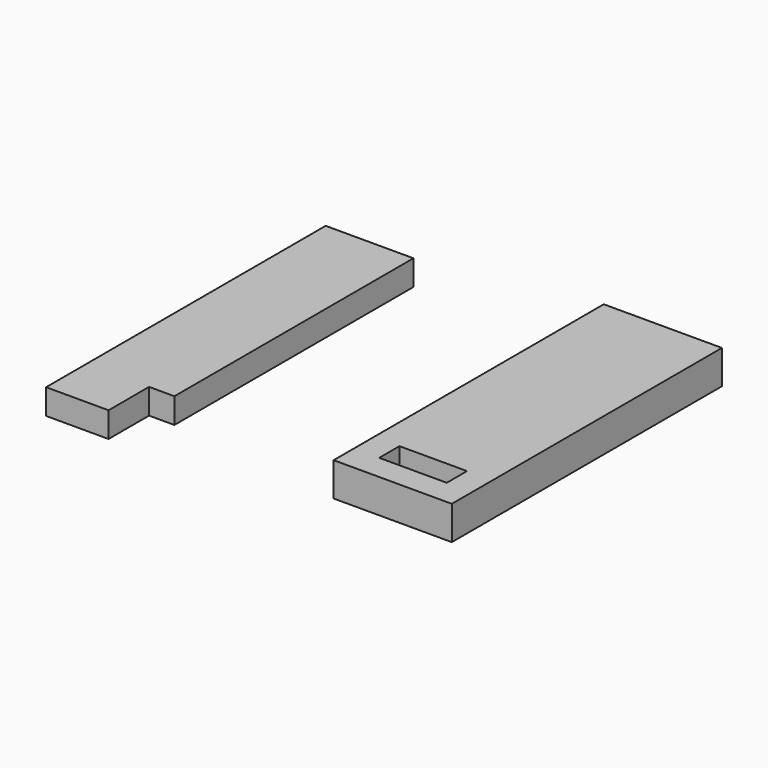
from build123d import *

# Parameters (mm, degrees)
F0_W     = 3.7
F0_H     = 3
F1_DEPTH = 1.5
F2_W     = 7
F2_H     = 20
F3_DEPTH = 2


with BuildPart() as f1:
    # F0 (on Top) → F1 (new body)
    with BuildSketch(Plane.XY):
        Polygon((2.6, -8.85), (2.6, 8.85), (-2.6, 8.85), (-2.6, -8.85), (1.1, -8.85), align=None)
        with Locations((-0.75, -10.35)):
            Rectangle(F0_W, F0_H)
    extrude(amount=F1_DEPTH)


with BuildPart() as f3:
    # F2 (on Top) → F3 (new body)
    with BuildSketch(Plane.XY):
        with Locations((16.453162, 0)):
            Rectangle(F2_W, F2_H)
        Polygon((18.453162, -8.5), (16.453162, -8.5), (14.453162, -8.5), (14.453162, -7), (18.453162, -7), align=None, mode=Mode.SUBTRACT)
    extrude(amount=F3_DEPTH)


solid = Compound([f1.part, f3.part])
